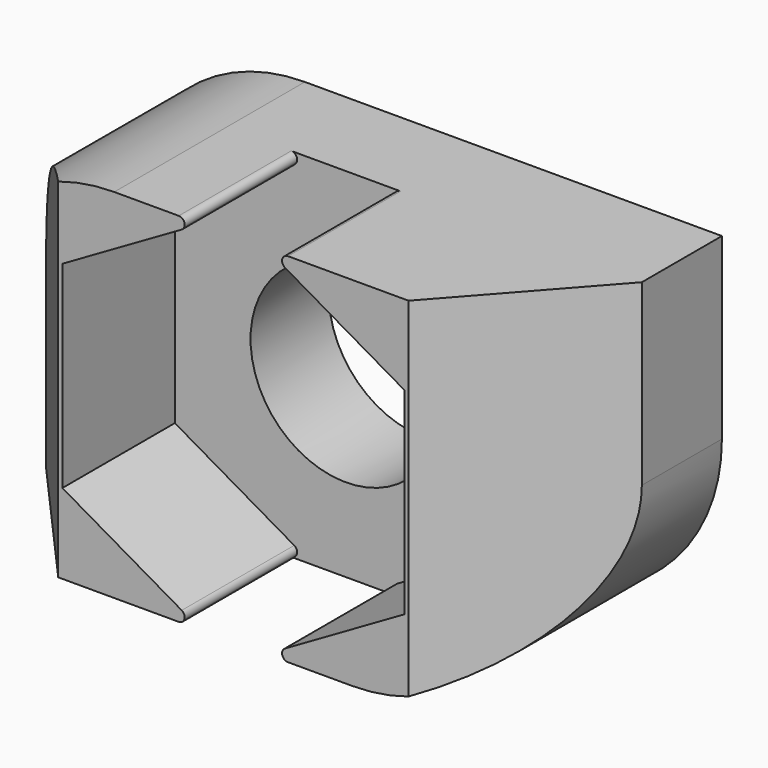
from build123d import *

# Parameters (mm, degrees)
PAD_DEPTH       = 6
SKETCH001_R     = 1.6
POCKET_DEPTH    = 4.001
POCKET001_DEPTH = 2.36
FILLET_R        = 0.1
FILLET001_R     = 3


with BuildPart() as part:
    # Sketch → Pad (new body)
    with BuildSketch(Plane.XY):
        Polygon((0, 0), (-5, 0), (-5, -1.68), (-2.94, -4), (0, -4), (2.94, -4), (5, -1.68), (5, 0), align=None)
    extrude(amount=PAD_DEPTH)

    # Sketch001 (on Face5 of Pad) → Pocket (cut, through all)
    with BuildSketch(Plane.XZ.offset(4)):
        with Locations((0, 3)):
            Circle(SKETCH001_R)
    extrude(amount=-POCKET_DEPTH, mode=Mode.SUBTRACT)

    # Sketch002 (on Face8 of Pocket) → Pocket001 (cut)
    with BuildSketch(Plane.XZ.offset(4)):
        Polygon((-2.87, 4.656995), (-2.87, 1.343005), (0, -0.313991), (2.87, 1.343005), (2.87, 4.656995), (0, 6.313991), align=None)
    extrude(amount=-POCKET001_DEPTH, mode=Mode.SUBTRACT)

    # Fillet
    fillet_edges = [part.edges().sort_by_distance(p)[0] for p in [
        (-0.543848, -2.82, 6),
        (0.543848, -2.82, 6),
        (0.543848, -2.82, 0),
        (-0.543848, -2.82, 0),
    ]]
    fillet(fillet_edges, radius=FILLET_R)

    # Fillet001
    fillet001_edges = [part.edges().sort_by_distance(p)[0] for p in [
        (5, -0.84, 0),
        (-5, -0.84, 6),
    ]]
    fillet(fillet001_edges, radius=FILLET001_R)


solid = part.part
